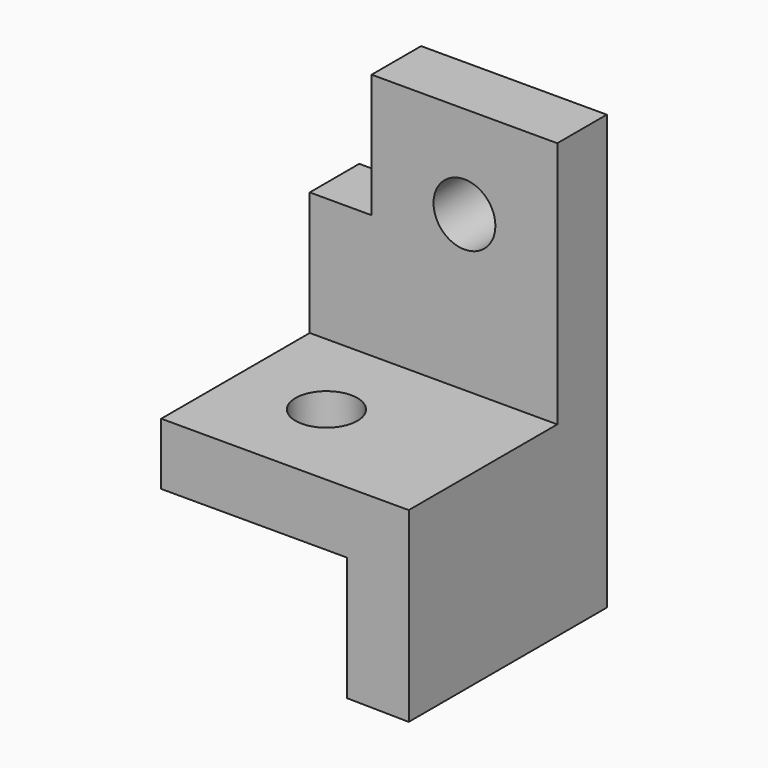
from build123d import *

# Parameters (mm, degrees)
F1_DEPTH = 25.4
F2_DEPTH = 101.6
F3_R     = 12.7
F4_DEPTH = 25.4
F5_R     = 12.7
F6_DEPTH = 25.4


with BuildPart() as f1:
    # F0 (on Front) → F1 (new body)
    with BuildSketch(Plane.XZ):
        Polygon((64.253767, 80.411777), (-11.946233, 80.411777), (-11.946233, 29.611777), (-37.346233, 29.611777), (-37.346233, -21.188223), (64.253767, -21.188223), align=None)
    extrude(amount=F1_DEPTH)

    # F0 (on Front) → F2 (join)
    with BuildSketch(Plane.XZ):
        Polygon((64.253767, -97.725551), (64.253767, -21.188223), (-37.346233, -21.188223), (-37.346233, -46.588223), (38.856007, -46.588223), (38.856007, -97.388223), align=None)
    extrude(amount=F2_DEPTH)

    # F3 (on face) → F4 (cut)
    with BuildSketch(Plane.XZ.offset(25.4)):
        with Locations((26.153767, 42.311777)):
            Circle(F3_R)
    extrude(amount=-F4_DEPTH, mode=Mode.SUBTRACT)

    # F5 (on face) → F6 (cut)
    with BuildSketch(Plane(origin=(0, 0, -46.588223), x_dir=(1, 0, 0), z_dir=(0, 0, -1))):
        with Locations((0, 63.5)):
            Circle(F5_R)
    extrude(amount=-F6_DEPTH, mode=Mode.SUBTRACT)


solid = f1.part
